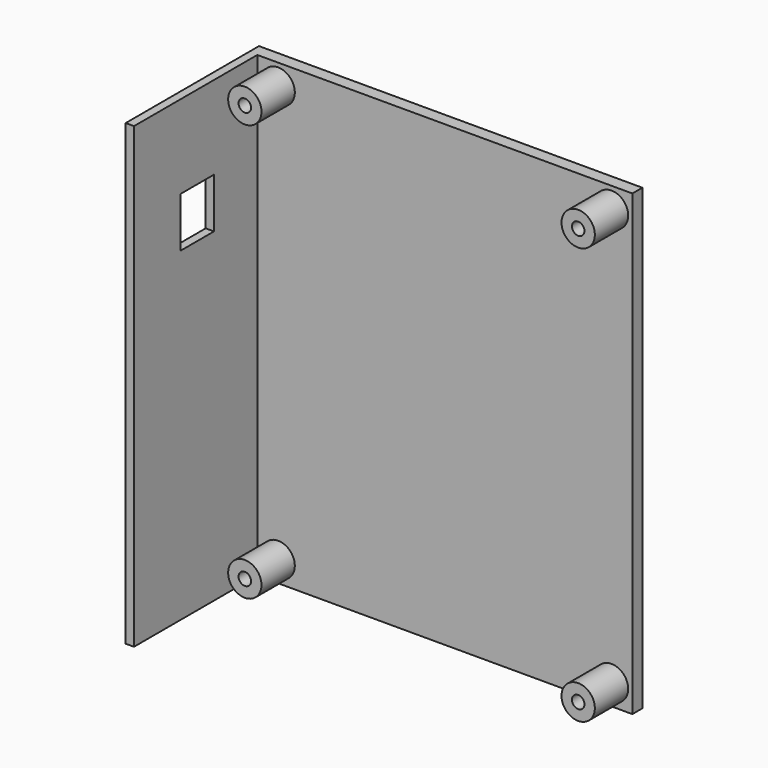
from build123d import *

# Parameters (mm, degrees)
F0_W     = 90
F0_H     = 110
F1_DEPTH = 3
F2_R     = 4
F2_R_2   = 1.5
F3_DEPTH = 10
F4_W     = 40
F4_H     = 110
F4_W_2   = 10
F4_H_2   = 12
F5_DEPTH = 2


with BuildPart() as f1:
    # F0 (on Front) → F1 (new body)
    with BuildSketch(Plane.XZ):
        Rectangle(F0_W, F0_H)
    extrude(amount=-F1_DEPTH)

    # F2 (on face) → F3 (join)
    with BuildSketch(Plane.XZ):
        with Locations((40, 50)):
            Circle(F2_R)
        with Locations((40, 50)):
            Circle(F2_R_2, mode=Mode.SUBTRACT)
        with Locations((-40, 50)):
            Circle(F2_R)
        with Locations((-40, 50)):
            Circle(F2_R_2, mode=Mode.SUBTRACT)
        with Locations((-40, -50)):
            Circle(F2_R)
        with Locations((-40, -50)):
            Circle(F2_R_2, mode=Mode.SUBTRACT)
        with Locations((40, -50)):
            Circle(F2_R)
        with Locations((40, -50)):
            Circle(F2_R_2, mode=Mode.SUBTRACT)
    extrude(amount=F3_DEPTH)

    # F4 (on face) → F5 (join)
    with BuildSketch(Plane(origin=(-45, 0, 0), x_dir=(0, -1, 0), z_dir=(-1, 0, 0))):
        with Locations((17, 0)):
            Rectangle(F4_W, F4_H)
        with Locations((18, 29)):
            Rectangle(F4_W_2, F4_H_2, mode=Mode.SUBTRACT)
    extrude(amount=F5_DEPTH)


solid = f1.part
